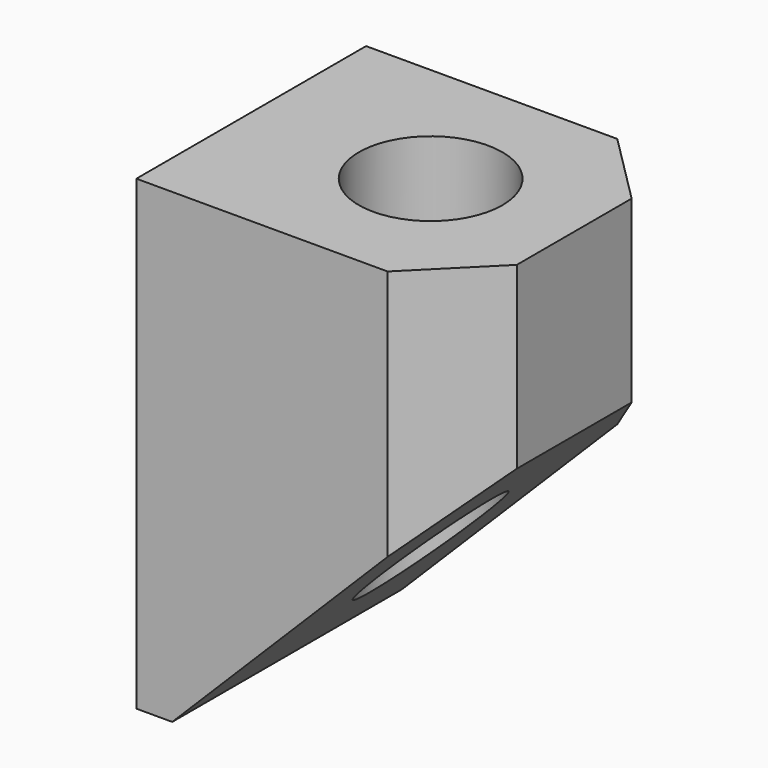
from build123d import *

# Parameters (mm, degrees)
CYLINDER020_R     = 2
CYLINDER020_DEPTH = 6
CYLINDER021_R     = 1.7
CYLINDER021_DEPTH = 10
BOX017_W          = 9
BOX017_H          = 8
BOX017_DEPTH      = 13
CHAMFER_SIZE      = 8
CHAMFER001_SIZE   = 2


with BuildPart() as cylinder020:
    # Cylinder020 → Cylinder020 (new body)
    with BuildSketch(Plane.XY.offset(4)):
        Circle(CYLINDER020_R)
    extrude(amount=CYLINDER020_DEPTH)


with BuildPart() as fusion010004007012:
    # Cylinder021 → Cylinder021 (new body)
    with BuildSketch(Plane.XY.offset(-4)):
        Circle(CYLINDER021_R)
    extrude(amount=CYLINDER021_DEPTH)

    # Fusion010004007012: union Cylinder020
    add(cylinder020.part)


with BuildPart() as case_bolt:
    # Box017 → Box017 (new body)
    with BuildSketch(Plane(origin=(-5, -4, -3), x_dir=(1, 0, 0), z_dir=(0, 0, 1))):
        with Locations((4.5, 4)):
            Rectangle(BOX017_W, BOX017_H)
    extrude(amount=BOX017_DEPTH)

    # Chamfer
    chamfer_edges = [case_bolt.edges().sort_by_distance(p)[0] for p in [
        (4, 0, -3),
    ]]
    chamfer(chamfer_edges, length=CHAMFER_SIZE)

    # Chamfer001
    chamfer001_edges = [case_bolt.edges().sort_by_distance(p)[0] for p in [
        (4, -4, 7.5),
        (4, 4, 7.5),
    ]]
    chamfer(chamfer001_edges, length=CHAMFER001_SIZE)

    # Cut003002006: cut Fusion010004007012
    add(fusion010004007012.part, mode=Mode.SUBTRACT)


solid = case_bolt.part
